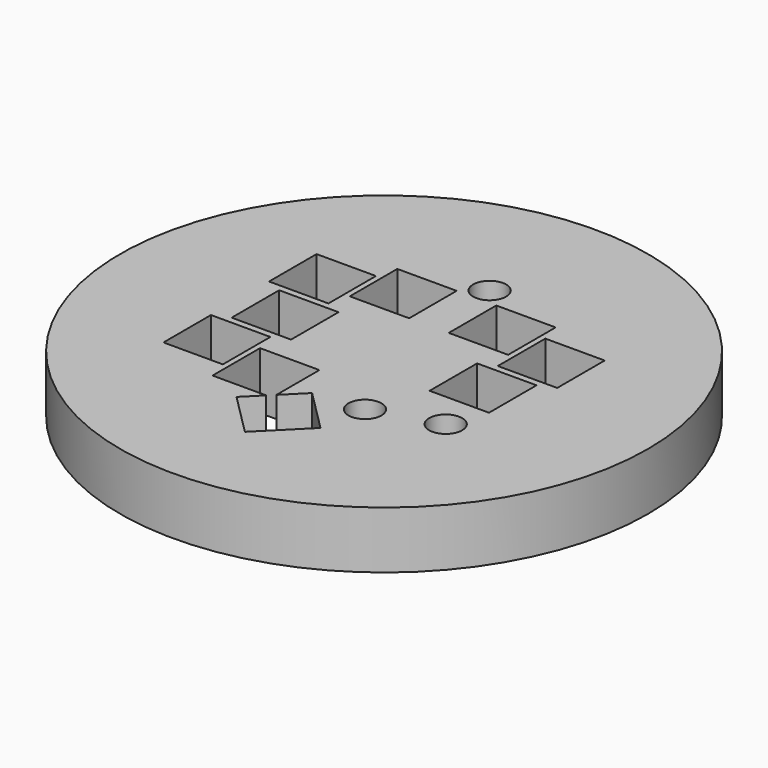
from build123d import *

# Parameters (mm, degrees)
BOX018_W               = 2.7
BOX018_H               = 2.7
BOX018_DEPTH           = 2.8
BOX021_W               = 2.7
BOX021_H               = 2.7
BOX021_DEPTH           = 2.8
BOX022_W               = 2.7
BOX022_H               = 2.7
BOX022_DEPTH           = 2.8
BOX023_W               = 2.7
BOX023_H               = 2.7
BOX023_DEPTH           = 2.8
BOX024_W               = 2.7
BOX024_H               = 2.7
BOX024_DEPTH           = 2.8
BOX025_W               = 2.7
BOX025_H               = 2.7
BOX025_DEPTH           = 2.8
BOX026_W               = 2.7
BOX026_H               = 2.7
BOX026_DEPTH           = 2.8
BOX019_W               = 2.7
BOX019_H               = 2.7
BOX019_DEPTH           = 2.8
BOX019_PLACEMENT_ANGLE = 45
BOX020_W               = 2.7
BOX020_H               = 2.7
BOX020_DEPTH           = 2.8
CYLINDER050_R          = 0.75
CYLINDER050_DEPTH      = 10
CYLINDER051_R          = 0.75
CYLINDER051_DEPTH      = 10
CYLINDER049_R          = 0.75
CYLINDER049_DEPTH      = 10
CYLINDER048_R          = 12
CYLINDER048_DEPTH      = 2.6


with BuildPart() as cube018:
    # Box018 → Box018 (new body)
    with BuildSketch(Plane(origin=(-3.6, 2.55, 2.6), x_dir=(1, 0, 0), z_dir=(0, 0, 1))):
        with Locations((1.35, 1.35)):
            Rectangle(BOX018_W, BOX018_H)
    extrude(amount=BOX018_DEPTH)


with BuildPart() as cube021:
    # Box021 → Box021 (new body)
    with BuildSketch(Plane(origin=(-6.55, -4.35, 2.6), x_dir=(1, 0, 0), z_dir=(0, 0, 1))):
        with Locations((1.35, 1.35)):
            Rectangle(BOX021_W, BOX021_H)
    extrude(amount=BOX021_DEPTH)


with BuildPart() as cube022:
    # Box022 → Box022 (new body)
    with BuildSketch(Plane(origin=(-5.85, -1.35, 2.6), x_dir=(1, 0, 0), z_dir=(0, 0, 1))):
        with Locations((1.35, 1.35)):
            Rectangle(BOX022_W, BOX022_H)
    extrude(amount=BOX022_DEPTH)


with BuildPart() as cube023:
    # Box023 → Box023 (new body)
    with BuildSketch(Plane(origin=(-6.55, 1.65, 2.6), x_dir=(1, 0, 0), z_dir=(0, 0, 1))):
        with Locations((1.35, 1.35)):
            Rectangle(BOX023_W, BOX023_H)
    extrude(amount=BOX023_DEPTH)


with BuildPart() as cube024:
    # Box024 → Box024 (new body)
    with BuildSketch(Plane(origin=(0.9, 2.55, 2.6), x_dir=(1, 0, 0), z_dir=(0, 0, 1))):
        with Locations((1.35, 1.35)):
            Rectangle(BOX024_W, BOX024_H)
    extrude(amount=BOX024_DEPTH)


with BuildPart() as cube025:
    # Box025 → Box025 (new body)
    with BuildSketch(Plane(origin=(3.85, 1.65, 2.6), x_dir=(1, 0, 0), z_dir=(0, 0, 1))):
        with Locations((1.35, 1.35)):
            Rectangle(BOX025_W, BOX025_H)
    extrude(amount=BOX025_DEPTH)


with BuildPart() as cube026:
    # Box026 → Box026 (new body)
    with BuildSketch(Plane(origin=(3.15, -1.35, 2.6), x_dir=(1, 0, 0), z_dir=(0, 0, 1))):
        with Locations((1.35, 1.35)):
            Rectangle(BOX026_W, BOX026_H)
    extrude(amount=BOX026_DEPTH)


with BuildPart() as cube019:
    # Box019 → Box019 (new body)
    with BuildSketch(Plane.XY):
        with Locations((1.35, 1.35)):
            Rectangle(BOX019_W, BOX019_H)
    extrude(amount=BOX019_DEPTH)


with BuildPart() as cube019_1:
    # Box019 placement: moved
    add(cube019.part.moved(Location((0, -7.91, 2.6))).rotate(Axis((0, -7.91, 2.6), (0, 0, 1)), BOX019_PLACEMENT_ANGLE))


with BuildPart() as fusion019:
    # Box020 → Box020 (new body)
    with BuildSketch(Plane(origin=(-3.6, -5.25, 2.6), x_dir=(1, 0, 0), z_dir=(0, 0, 1))):
        with Locations((1.35, 1.35)):
            Rectangle(BOX020_W, BOX020_H)
    extrude(amount=BOX020_DEPTH)

    # Fusion019: union Cube019
    add(cube019_1.part)


with BuildPart() as cylinder051:
    # Cylinder050 → Cylinder050 (new body)
    with BuildSketch(Plane(origin=(0, 6, 0), x_dir=(1, 0, 0), z_dir=(0, 0, 1))):
        Circle(CYLINDER050_R)
    extrude(amount=CYLINDER050_DEPTH)


with BuildPart() as cylinder048:
    # Cylinder051 → Cylinder051 (new body)
    with BuildSketch(Plane(origin=(2.25, -3.9, 0), x_dir=(1, 0, 0), z_dir=(0, 0, 1))):
        Circle(CYLINDER051_R)
    extrude(amount=CYLINDER051_DEPTH)


with BuildPart() as compound001:
    # Cylinder049 → Cylinder049 (new body)
    with BuildSketch(Plane(origin=(5.2, -3, 0), x_dir=(1, 0, 0), z_dir=(0, 0, 1))):
        Circle(CYLINDER049_R)
    extrude(amount=CYLINDER049_DEPTH)

    # Compound001: union Cube018, Cube021, Cube022, Cube023, Cube024, Cube025, Cube026, Fusion019, Cylinder051, Cylinder048
    add(cube018.part)
    add(cube021.part)
    add(cube022.part)
    add(cube023.part)
    add(cube024.part)
    add(cube025.part)
    add(cube026.part)
    add(fusion019.part)
    add(cylinder051.part)
    add(cylinder048.part)


with BuildPart() as pcb_solder_jig:
    # Cylinder048 → Cylinder048 (new body)
    with BuildSketch(Plane.XY.offset(2.7)):
        Circle(CYLINDER048_R)
    extrude(amount=CYLINDER048_DEPTH)

    # Cut013010: cut Compound001
    add(compound001.part, mode=Mode.SUBTRACT)


solid = pcb_solder_jig.part
